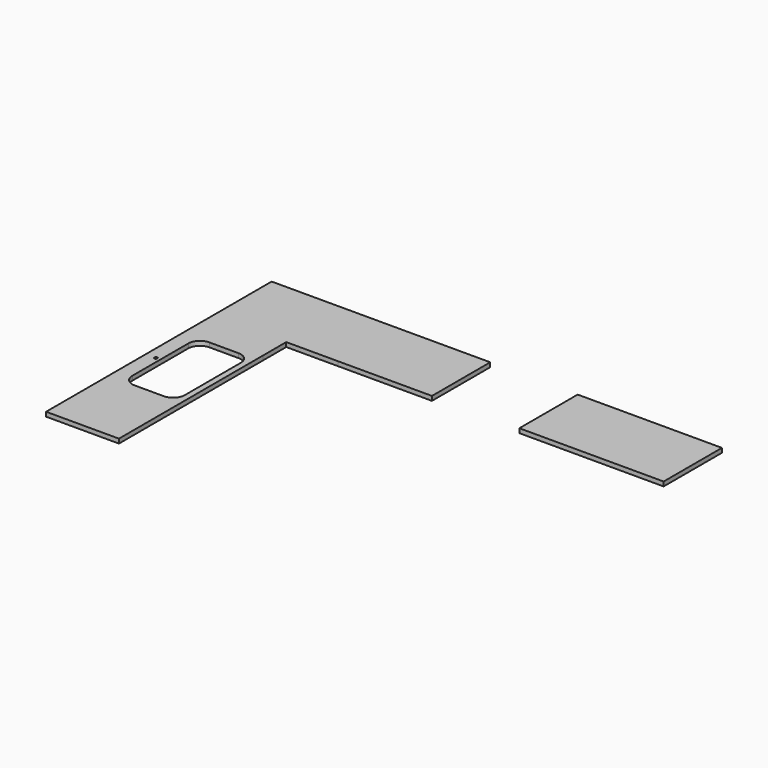
from build123d import *

# Parameters (mm, degrees)
F0_W          = 38.1
F0_H          = 635
F1_DEPTH      = 38.1
F2_DEPTH      = 876.3
F4_W          = 762
F4_H          = 807.183926
F5_DEPTH      = 203.2
F5_DEPTH_BACK = 203.2
F6_R          = 12.7
F7_DEPTH      = 127
F2_FACE_W     = 635
F2_FACE_H     = 876.3
F8_DEPTH      = 127
F9_W          = 449.440837
F9_H          = 659.774303
F10_DEPTH     = 127


with BuildPart() as f1:
    # F0 (on Top) → F1 (new body)
    with BuildSketch(Plane.XY):
        Polygon((1943.1, -317.5), (1943.1, 317.5), (-1943.1, 317.5), (-1943.1, -317.5), (-1308.1, -317.5), (-1056.652829, -317.5), align=None)
        Polygon((-1308.1, -317.5), (-1943.1, -317.5), (-1943.1, -2139.95), (-1308.1, -2139.95), (-1308.1, -568.947171), align=None)
        with Locations((1962.15, 0)):
            Rectangle(F0_W, F0_H)
        Polygon((-1308.1, -568.947171), (-1056.652829, -317.5), (-1308.1, -317.5), align=None)
    extrude(amount=F1_DEPTH)

    # F0 (on Top) → F2 (join)
    with BuildSketch(Plane.XY):
        with Locations((1962.15, 0)):
            Rectangle(F0_W, F0_H)
    extrude(amount=-F2_DEPTH)

    # F4 (on face) → F5 (cut, two sides)
    with BuildSketch(Plane.XY.offset(38.1)) as f5_sk:
        with Locations((342.9, 86.091963)):
            Rectangle(F4_W, F4_H)
    extrude(amount=-F5_DEPTH, mode=Mode.SUBTRACT)
    extrude(f5_sk.sketch, amount=-F5_DEPTH_BACK, mode=Mode.SUBTRACT)

    # F6 (on face) → F7 (cut)
    with BuildSketch(Plane.XY.offset(38.1)):
        with BuildLine():
            ThreePointArc((-1358.9, -749.3), (-1388.657951, -677.457951), (-1460.5, -647.7))
            Line((-1460.5, -647.7), (-1714.5, -647.7))
            ThreePointArc((-1714.5, -647.7), (-1786.342049, -677.457951), (-1816.1, -749.3))
            Line((-1816.1, -749.3), (-1816.1, -1358.9))
            ThreePointArc((-1816.1, -1358.9), (-1786.342049, -1430.742049), (-1714.5, -1460.5))
            Line((-1714.5, -1460.5), (-1460.5, -1460.5))
            ThreePointArc((-1460.5, -1460.5), (-1388.657951, -1430.742049), (-1358.9, -1358.9))
            Line((-1358.9, -1358.9), (-1358.9, -749.3))
        make_face()
        with Locations((-1854.2, -1054.1)):
            Circle(F6_R)
    extrude(amount=-F7_DEPTH, mode=Mode.SUBTRACT)

    # F2_face (on face) → F8 (cut)
    with BuildSketch(Plane(origin=(1943.1, 0, -438.15), x_dir=(0, -1, 0), z_dir=(-1, 0, 0))):
        Rectangle(F2_FACE_W, F2_FACE_H)
    extrude(amount=-F8_DEPTH, mode=Mode.SUBTRACT)

    # F9 (on face) → F10 (cut)
    with BuildSketch(Plane.XY.offset(38.1)):
        with Locations((-1083.379581, -647.387151)):
            Rectangle(F9_W, F9_H)
    extrude(amount=-F10_DEPTH, mode=Mode.SUBTRACT)


solid = f1.part
